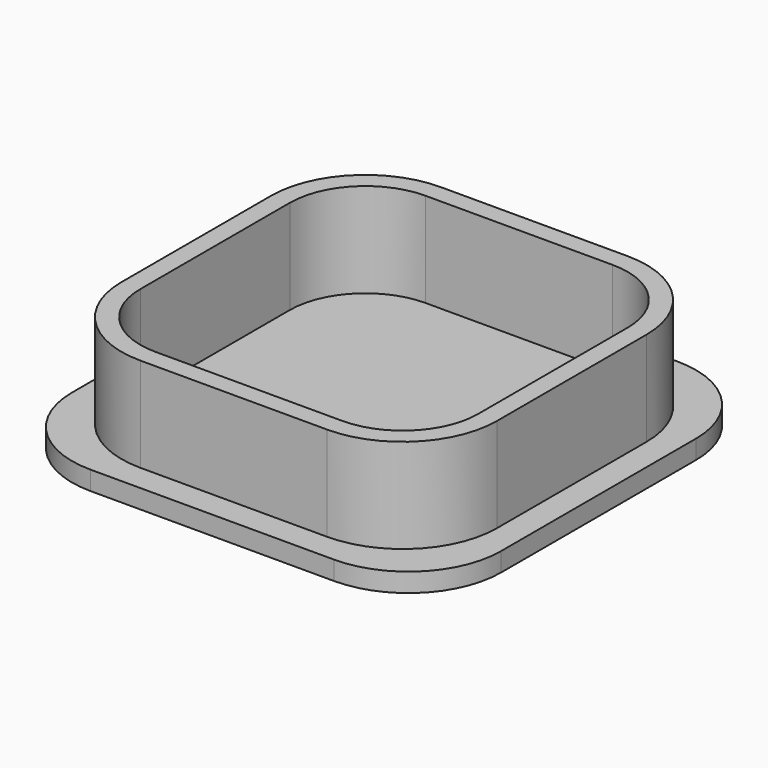
from build123d import *

# Parameters (mm, degrees)
PAD_DEPTH    = 12.7
PAD001_DEPTH = 2.54


with BuildPart() as part:
    # Sketch → Pad (new body)
    with BuildSketch(Plane.XY):
        with BuildLine():
            Line((-25.273, -12.573), (-25.273, 12.573))
            ThreePointArc((-12.573, 25.273), (-21.553256, 21.553256), (-25.273, 12.573))
            Line((-12.573, 25.273), (12.573, 25.273))
            ThreePointArc((25.273, 12.573), (21.553256, 21.553256), (12.573, 25.273))
            Line((25.273, 12.573), (25.273, -12.573))
            ThreePointArc((12.573, -25.273), (21.553256, -21.553256), (25.273, -12.573))
            Line((12.573, -25.273), (-12.573, -25.273))
            ThreePointArc((-25.273, -12.573), (-21.553256, -21.553256), (-12.573, -25.273))
        make_face()
        with BuildLine():
            Line((-22.733, -12.573), (-22.733, 12.573))
            ThreePointArc((-12.573, 22.733), (-19.757205, 19.757205), (-22.733, 12.573))
            Line((-12.573, 22.733), (12.573, 22.733))
            ThreePointArc((22.733, 12.573), (19.757205, 19.757205), (12.573, 22.733))
            Line((22.733, 12.573), (22.733, -12.573))
            ThreePointArc((12.573, -22.733), (19.757205, -19.757205), (22.733, -12.573))
            Line((12.573, -22.733), (-12.573, -22.733))
            ThreePointArc((-22.733, -12.573), (-19.757205, -19.757205), (-12.573, -22.733))
        make_face(mode=Mode.SUBTRACT)
    extrude(amount=PAD_DEPTH)

    # Sketch001 → Pad001 (join)
    with BuildSketch(Plane.XY):
        with BuildLine():
            Line((-28.870723, -16.399415), (-28.870723, 16.399415))
            ThreePointArc((-16.399415, 28.870723), (-25.217961, 25.217961), (-28.870723, 16.399415))
            Line((-16.399415, 28.870723), (16.399415, 28.870723))
            ThreePointArc((28.870723, 16.399415), (25.217961, 25.217961), (16.399415, 28.870723))
            Line((28.870723, 16.399415), (28.870723, -16.399415))
            ThreePointArc((16.399415, -28.870723), (25.217961, -25.217961), (28.870723, -16.399415))
            Line((16.399415, -28.870723), (-16.399415, -28.870723))
            ThreePointArc((-28.870723, -16.399415), (-25.217961, -25.217961), (-16.399415, -28.870723))
        make_face()
    extrude(amount=-PAD001_DEPTH)


solid = part.part
